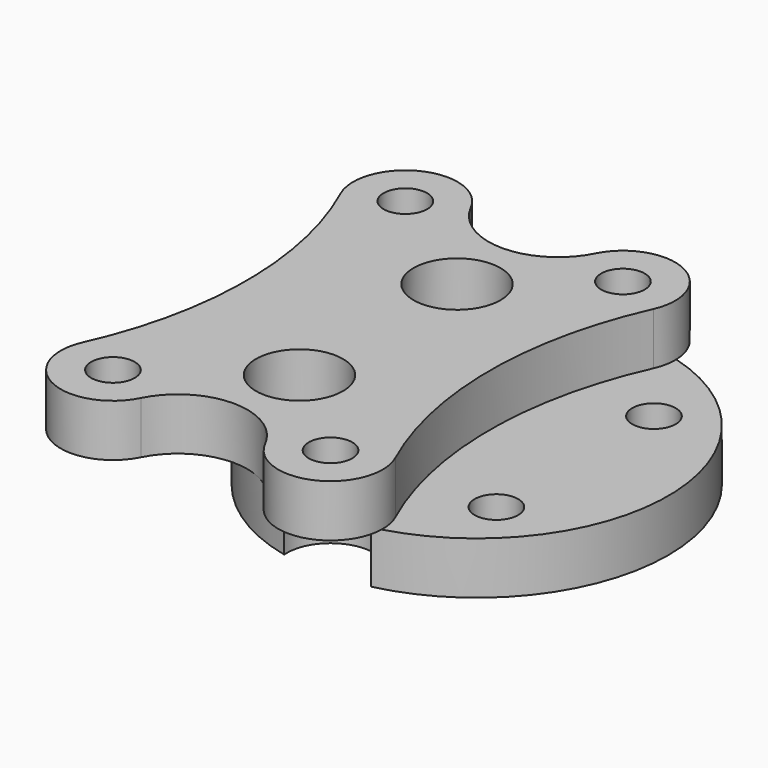
from build123d import *

# Parameters (mm, degrees)
F0_R     = 11
F0_R_2   = 1.25
F1_DEPTH = 3
F2_R     = 1.25
F2_R_2   = 2.5
F3_DEPTH = 3
F4_R     = 2.5
F5_DEPTH = 5


with BuildPart() as f1:
    # F0 (on Top) → F1 (new body)
    with BuildSketch(Plane.XY):
        Circle(F0_R)
        with Locations((-5.656854, -5.656854)):
            Circle(F0_R_2, mode=Mode.SUBTRACT)
        with Locations((5.656854, -5.656854)):
            Circle(F0_R_2, mode=Mode.SUBTRACT)
        with Locations((-5.656854, 5.656854)):
            Circle(F0_R_2, mode=Mode.SUBTRACT)
        with Locations((5.656854, 5.656854)):
            Circle(F0_R_2, mode=Mode.SUBTRACT)
    extrude(amount=F1_DEPTH)

    # F2 (on face) → F3 (join)
    with BuildSketch(Plane.XY.offset(3)):
        with BuildLine():
            ThreePointArc((-15.233871, 9.264706), (-13.2379, 0), (-15.233871, -9.264706))
            ThreePointArc((-15.233871, -9.264706), (-13.793453, -13.20684), (-9.821429, -11.85102))
            ThreePointArc((-9.821429, -11.85102), (-6.25, -9.65238), (-2.678571, -11.85102))
            ThreePointArc((-2.678571, -11.85102), (1.293453, -13.20684), (2.733871, -9.264706))
            ThreePointArc((2.733871, -9.264706), (0.7379, 0), (2.733871, 9.264706))
            ThreePointArc((2.733871, 9.264706), (1.293453, 13.20684), (-2.678571, 11.85102))
            ThreePointArc((-2.678571, 11.85102), (-6.25, 9.65238), (-9.821429, 11.85102))
            ThreePointArc((-9.821429, 11.85102), (-13.793453, 13.20684), (-15.233871, 9.264706))
        make_face()
        with Locations((-12.5, -10.5)):
            Circle(F2_R, mode=Mode.SUBTRACT)
        with Locations((0, -10.5)):
            Circle(F2_R, mode=Mode.SUBTRACT)
        with Locations((-5.656854, -5.656854)):
            Circle(F2_R_2, mode=Mode.SUBTRACT)
        with Locations((-12.5, 10.5)):
            Circle(F2_R, mode=Mode.SUBTRACT)
        with Locations((-5.656854, 5.656854)):
            Circle(F2_R_2, mode=Mode.SUBTRACT)
        with Locations((0, 10.5)):
            Circle(F2_R, mode=Mode.SUBTRACT)
    extrude(amount=F3_DEPTH)

    # F4 (on face) → F5 (cut)
    with BuildSketch(Plane(origin=(0, 0, 3), x_dir=(1, 0, 0), z_dir=(0, 0, -1))):
        with Locations((0, 10.5)):
            Circle(F4_R)
        with Locations((0, -10.5)):
            Circle(F4_R)
    extrude(amount=F5_DEPTH, mode=Mode.SUBTRACT)


solid = f1.part
